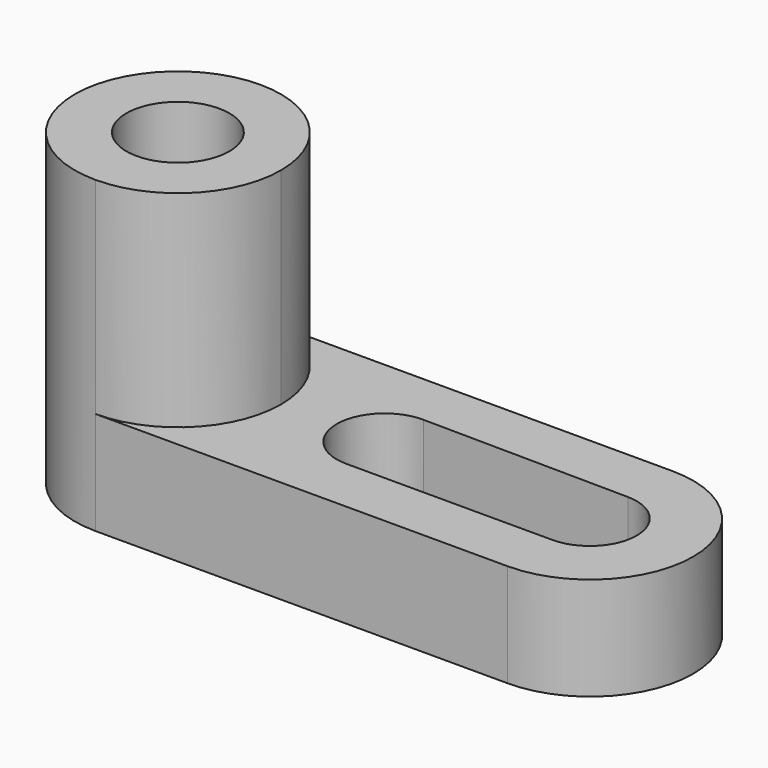
from build123d import *

# Parameters (mm, degrees)
F1_DEPTH = 25.4
F0_R     = 12.7
F2_DEPTH = 76.2


with BuildPart() as f1:
    # F0 (on Top) → F1 (new body)
    with BuildSketch(Plane.XY):
        with BuildLine():
            Line((54.049923, 44.59002), (-47.550077, 44.59002))
            ThreePointArc((-47.550077, 44.59002), (-29.589565, 37.150532), (-22.150077, 19.19002))
            ThreePointArc((-22.150077, 19.19002), (-29.589565, 1.229507), (-47.550077, -6.20998))
            Line((-47.550077, -6.20998), (54.049923, -6.20998))
            ThreePointArc((54.049923, -6.20998), (79.449923, 19.19002), (54.049923, 44.59002))
        make_face()
        with BuildLine():
            Line((3.252867, 31.34379), (54.049923, 30.796887))
            ThreePointArc((54.049923, 30.796887), (65.457669, 19.265659), (54.049923, 7.734431))
            Line((54.049923, 7.734431), (3.252867, 7.734431))
            ThreePointArc((3.252867, 7.734431), (-8.679591, 19.53911), (3.252867, 31.34379))
        make_face(mode=Mode.SUBTRACT)
    extrude(amount=F1_DEPTH)

    # F0 (on Top) → F2 (join)
    with BuildSketch(Plane.XY):
        with BuildLine():
            ThreePointArc((-22.150077, 19.19002), (-29.589565, 37.150532), (-47.550077, 44.59002))
            ThreePointArc((-47.550077, 44.59002), (-72.950077, 19.19002), (-47.550077, -6.20998))
            ThreePointArc((-47.550077, -6.20998), (-29.589565, 1.229507), (-22.150077, 19.19002))
        make_face()
        with Locations((-47.550077, 19.19002)):
            Circle(F0_R, mode=Mode.SUBTRACT)
    extrude(amount=F2_DEPTH)


solid = f1.part
